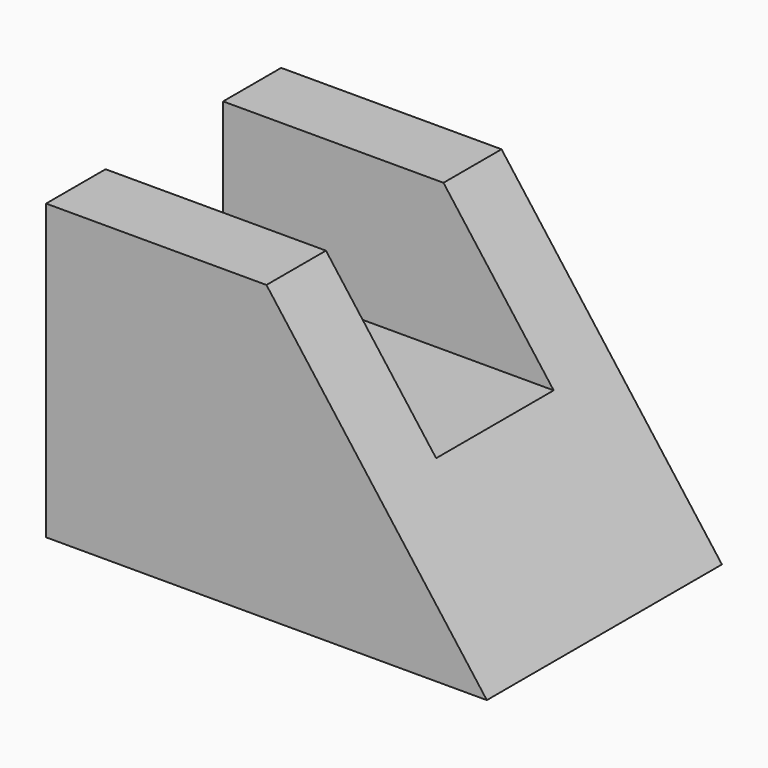
from build123d import *

# Parameters (mm, degrees)
F0_W     = 19.05
F0_H     = 6.273494
F1_DEPTH = 25.4
F0_H_2   = 6.426506
F2_DEPTH = 25.4
F3_DEPTH = 12.7
F5_DEPTH = 25.4
F6_W     = 12.7
F6_H     = 12.7
F7_DEPTH = 38.101
F9_DEPTH = 25.401


with BuildPart() as f1:
    # F0 (on Top) → F1 (new body)
    with BuildSketch(Plane.XY):
        with Locations((9.525, 22.263253)):
            Rectangle(F0_W, F0_H)
    extrude(amount=F1_DEPTH)



with BuildPart() as f2:
    # F0 (on Top) → F2 (new body)
    with BuildSketch(Plane.XY):
        with Locations((9.525, 3.213253)):
            Rectangle(F0_W, F0_H_2)
    extrude(amount=F2_DEPTH)


with BuildPart() as f3:
    # F0 (on Top) → F3 (new body)
    with BuildSketch(Plane.XY):
        Polygon((0, 19.126506), (0, 6.426506), (19.05, 6.426506), (28.575, 6.426506), (28.575, 19.126506), (19.05, 19.126506), align=None)
        Polygon((19.05, 6.426506), (19.05, 0), (38.1, 0), (38.1, 25.4), (19.05, 25.4), (19.05, 19.126506), (28.575, 19.126506), (28.575, 6.426506), align=None)
    extrude(amount=F3_DEPTH)


with BuildPart() as f1_1:
    add(f1.part)

    add(f2.part)  # F5 merges F2

    add(f3.part)  # F5 merges F3
    # F4 (on Front) → F5 (join)
    with BuildSketch(Plane.XZ):
        Polygon((19.05, 25.4), (19.05, 0), (38.1, 0), align=None)
    extrude(amount=-F5_DEPTH)

    # F6 (on Right) → F7 (cut, through all)
    with BuildSketch(Plane.YZ):
        with Locations((12.776506, 19.05)):
            Rectangle(F6_W, F6_H)
    extrude(amount=F7_DEPTH, mode=Mode.SUBTRACT)

    # F8 (on Front) → F9 (cut, through all)
    with BuildSketch(Plane.XZ):
        Polygon((38.1, 0), (38.1, 12.7), (28.575, 12.7), align=None)
    extrude(amount=-F9_DEPTH, mode=Mode.SUBTRACT)


solid = f1_1.part
